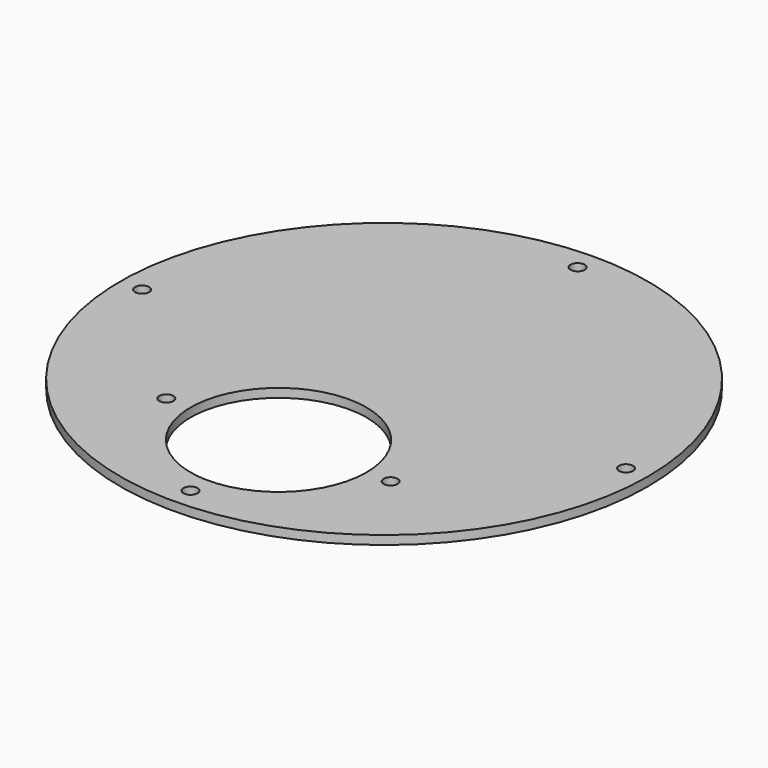
from build123d import *

# Parameters (mm, degrees)
F0_R     = 60
F0_R_2   = 1.6
F0_R_3   = 20
F1_DEPTH = 2


with BuildPart() as f1:
    # F0 (on Top) → F1 (new body)
    with BuildSketch(Plane.XY):
        Circle(F0_R)
        with Locations((-25.5, -30)):
            Circle(F0_R_2, mode=Mode.SUBTRACT)
        with Locations((0, -55)):
            Circle(F0_R_2, mode=Mode.SUBTRACT)
        with Locations((0, -30)):
            Circle(F0_R_3, mode=Mode.SUBTRACT)
        with Locations((25.5, -30)):
            Circle(F0_R_2, mode=Mode.SUBTRACT)
        with Locations((-55, 0)):
            Circle(F0_R_2, mode=Mode.SUBTRACT)
        with Locations((55, 0)):
            Circle(F0_R_2, mode=Mode.SUBTRACT)
        with Locations((0, 55)):
            Circle(F0_R_2, mode=Mode.SUBTRACT)
    extrude(amount=F1_DEPTH)


solid = f1.part
